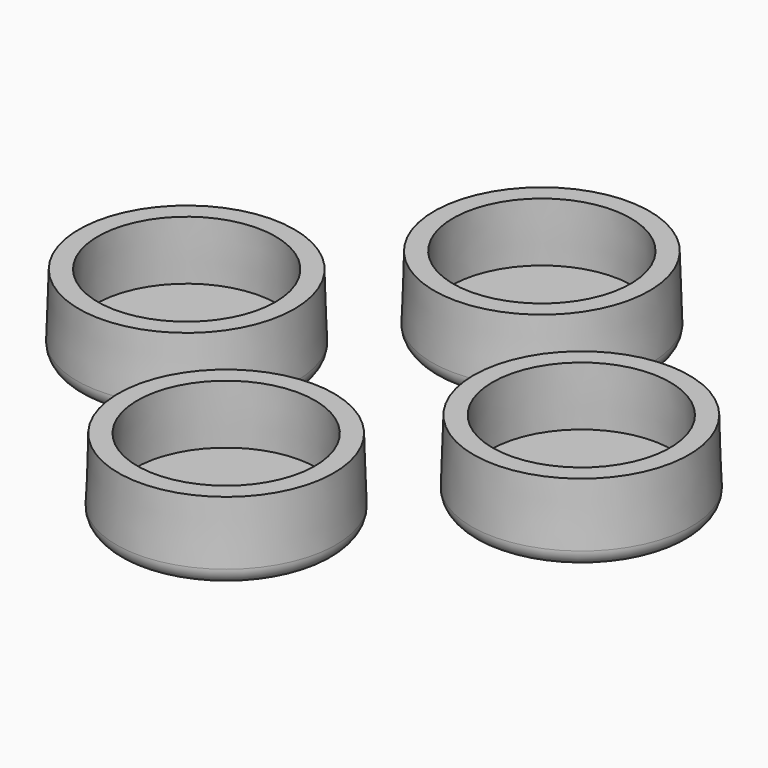
from build123d import *

# Parameters (mm, degrees)
F3_R     = 2
F5_COUNT = 4


with BuildPart() as f2:
    # F1 (on Front) → F2 (revolve)
    with BuildSketch(Plane.XZ):
        Polygon((0, 2.4), (0, 0), (13.978947, 0), (13.65, 10), (11.25, 10), (11.5, 2.4), align=None)
    revolve(axis=Axis((0, 0, 18.589567), (0, 0, 1)))

    # F3
    f3_edges = [f2.edges().sort_by_distance(p)[0] for p in [
        (-13.978947, 0, 0),
    ]]
    fillet(f3_edges, radius=F3_R)


with BuildPart() as f5_1:
    # F5: instance of F2
    add(f2.part.rotate(Axis((25, 0, 8.950198), (0, 0, 1)), 1 * 360 / F5_COUNT))


with BuildPart() as f5_2:
    # F5: instance of F2
    add(f2.part.rotate(Axis((25, 0, 8.950198), (0, 0, 1)), 2 * 360 / F5_COUNT))


with BuildPart() as f5_3:
    # F5: instance of F2
    add(f2.part.rotate(Axis((25, 0, 8.950198), (0, 0, 1)), 3 * 360 / F5_COUNT))


solid = Compound([f2.part, f5_1.part, f5_2.part, f5_3.part])
